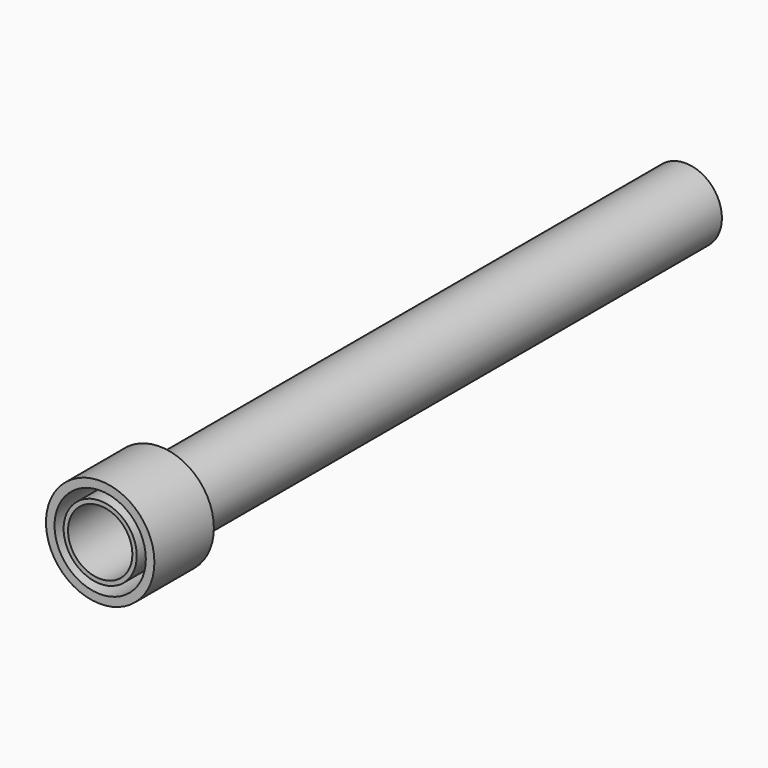
from build123d import *

# Parameters (mm, degrees)
F0_R     = 12.5
F0_R_2   = 11
F1_DEPTH = 250
F2_R     = 18.528692
F2_R_2   = 15.601754
F3_DEPTH = 25.4


with BuildPart() as f1:
    # F0 (on Front) → F1 (new body)
    with BuildSketch(Plane.XZ):
        Circle(F0_R)
        Circle(F0_R_2, mode=Mode.SUBTRACT)
    extrude(amount=-F1_DEPTH)


with BuildPart() as f3:
    # F2 (on Front) → F3 (new body)
    with BuildSketch(Plane.XZ):
        Circle(F2_R)
        Circle(F2_R_2, mode=Mode.SUBTRACT)
    extrude(amount=-F3_DEPTH)


solid = Compound([f1.part, f3.part])
